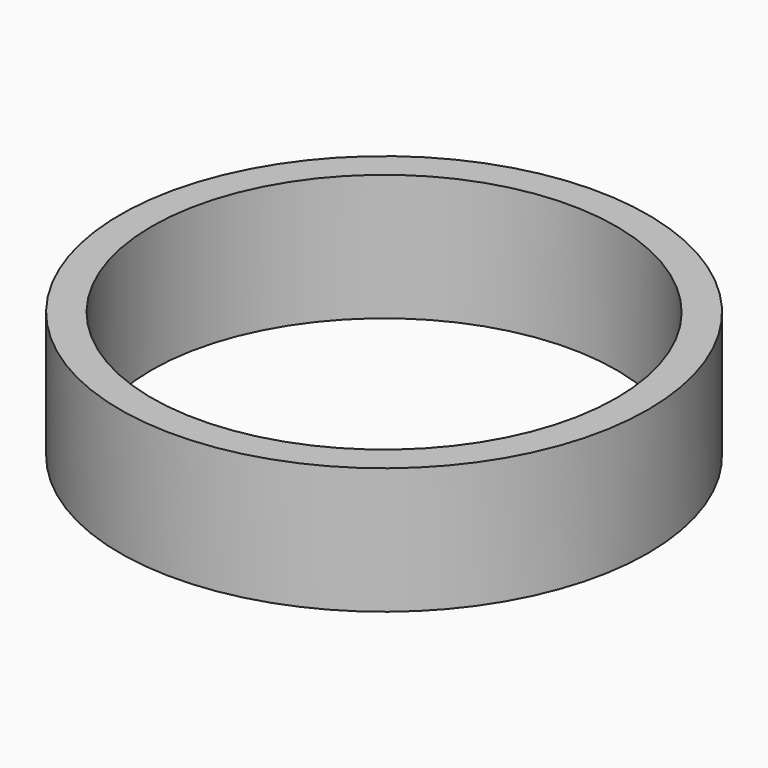
from build123d import *

# Parameters (mm, degrees)
F0_R     = 53.853392601
F2_DEPTH = 25.4
F1_R     = 53.065742398
F4_T     = -6.35


with BuildPart() as f2:
    # F0 (on Top) → F2 (new body)
    with BuildSketch(Plane.XY):
        with Locations((-53.853392601, 0)):
            Circle(F0_R)
    extrude(amount=F2_DEPTH)


with BuildPart() as f2b:
    # F1 (on Top) → F2, piece 2 (new body)
    with BuildSketch(Plane.XY):
        with Locations((-54.5146726072, 0)):
            Circle(F1_R)
        with Locations((-54.5146726072, 0)):
            Circle(F1_R)
    extrude(amount=F2_DEPTH)

    # F4
    f4_openings = [f2b.faces().sort_by_distance(p)[0] for p in [
        (-54.514673, 0, 0),
        (-54.514673, 0, 25.4),
    ]]
    offset(amount=F4_T, openings=f4_openings)


solid = f2b.part
